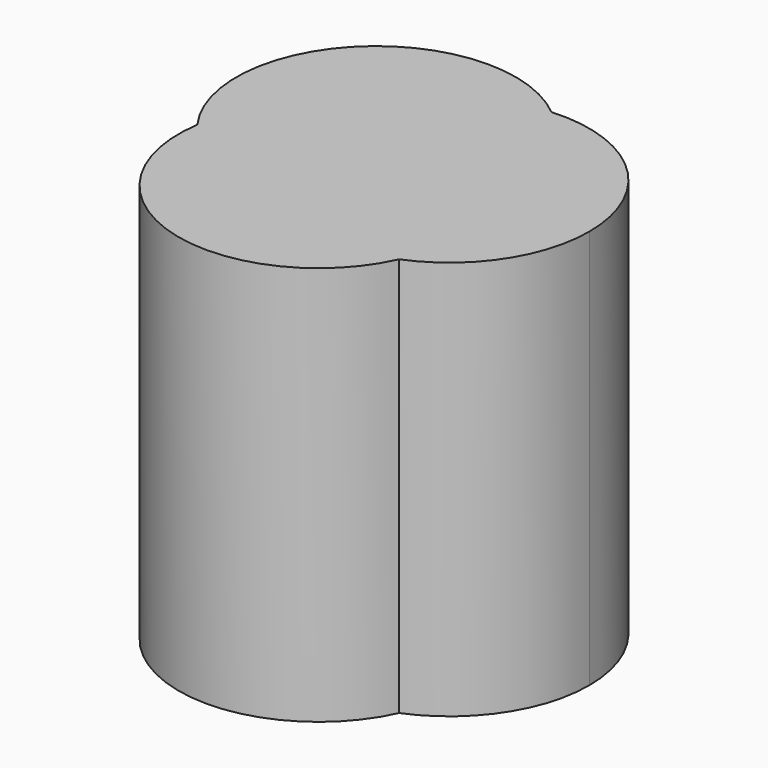
from build123d import *

# Parameters (mm, degrees)
F1_DEPTH = 6


with BuildPart() as f1:
    # F0 (on Top) → F1 (new body)
    with BuildSketch(Plane.XY):
        with BuildLine():
            ThreePointArc((-1.0145844789, 1.0865165004), (-0.2993773481, 1.940530033), (0.7519947958, 2.3086019946))
            ThreePointArc((0.7519947958, 2.3086019946), (-2.0241077025, 2.2273687204), (-2.2918373339, -0.5369874017))
            ThreePointArc((-2.2918373339, -0.5369874017), (-1.8666337902, 0.4426698973), (-1.0145844789, 1.0865165004))
        make_face()
        with BuildLine():
            ThreePointArc((1.4856810162, 0.3745293341), (1.5039268153, 0.5334655504), (1.5100205367, 0.6933295444))
            ThreePointArc((1.5100205367, 0.6933295444), (1.3110920693, 1.5854769695), (0.7519947958, 2.3086019946))
            ThreePointArc((0.7519947958, 2.3086019946), (-0.2993773481, 1.940530033), (-1.0145844789, 1.0865165004))
            ThreePointArc((-1.0145844789, 1.0865165004), (0.3589640136, 1.1639185502), (1.4856810162, 0.3745293341))
        make_face()
        with BuildLine():
            ThreePointArc((0.7519947958, 2.3086019946), (1.3110920693, 1.5854769695), (1.5100205367, 0.6933295444))
            ThreePointArc((1.5100205367, 0.6933295444), (1.5039268153, 0.5334655504), (1.4856810162, 0.3745293341))
            ThreePointArc((1.4856810162, 0.3745293341), (1.7818098232, -0.2092203411), (1.8838231455, -0.855787612))
            ThreePointArc((1.8838231455, -0.855787612), (1.835756242, -1.3025208295), (1.6937559383, -1.7288034923))
            ThreePointArc((1.6937559383, -1.7288034923), (2.6398620013, -0.9555468529), (2.9953483138, 0.2135006202))
            ThreePointArc((2.9953483138, 0.2135006202), (2.3286936337, 1.7482713503), (0.7519947958, 2.3086019946))
        make_face()
        with BuildLine():
            ThreePointArc((-0.4466259452, -1.4017718299), (0.8312232797, -0.8526920477), (1.4856810162, 0.3745293341))
            ThreePointArc((1.4856810162, 0.3745293341), (0.3589640136, 1.1639185502), (-1.0145844789, 1.0865165004))
            ThreePointArc((-1.0145844789, 1.0865165004), (-1.1519962034, -0.2538112969), (-0.4466259452, -1.4017718299))
        make_face()
        with BuildLine():
            ThreePointArc((-1.0145844789, 1.0865165004), (-1.8666337902, 0.4426698973), (-2.2918373339, -0.5369874017))
            ThreePointArc((-2.2918373339, -0.5369874017), (-1.4811567639, -1.2081969526), (-0.4466259452, -1.4017718299))
            ThreePointArc((-0.4466259452, -1.4017718299), (-1.1519962034, -0.2538112969), (-1.0145844789, 1.0865165004))
        make_face()
        with BuildLine():
            ThreePointArc((-0.4466259452, -1.4017718299), (-1.4811567639, -1.2081969526), (-2.2918373339, -0.5369874017))
            ThreePointArc((-2.2918373339, -0.5369874017), (-0.8178186208, -2.8677585823), (1.6937559383, -1.7288034923))
            ThreePointArc((1.6937559383, -1.7288034923), (0.5781676104, -1.8624079523), (-0.4466259452, -1.4017718299))
        make_face()
        with BuildLine():
            ThreePointArc((1.8838231455, -0.855787612), (1.7818098232, -0.2092203411), (1.4856810162, 0.3745293341))
            ThreePointArc((1.4856810162, 0.3745293341), (0.8312232797, -0.8526920477), (-0.4466259452, -1.4017718299))
            ThreePointArc((-0.4466259452, -1.4017718299), (0.5781676104, -1.8624079523), (1.6937559383, -1.7288034923))
            ThreePointArc((1.6937559383, -1.7288034923), (1.835756242, -1.3025208295), (1.8838231455, -0.855787612))
        make_face()
    extrude(amount=F1_DEPTH)


solid = f1.part
